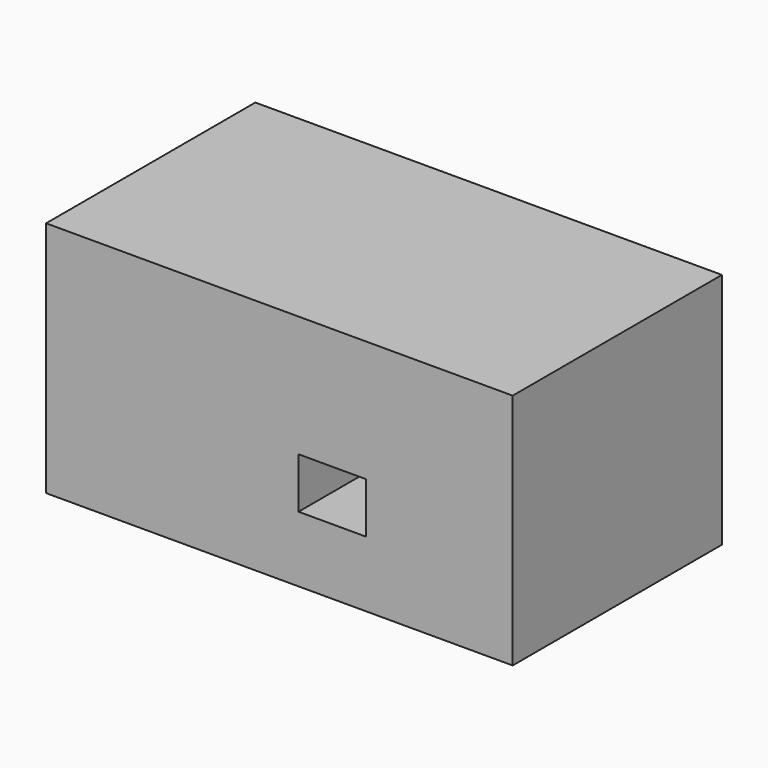
from build123d import *

# Parameters (mm, degrees)
F0_W          = 196.413949132
F0_H          = 110.1024672389
F0_W_2        = 42.3258244991
F0_H_2        = 21.1168043315
F1_DEPTH      = 100
F2_W          = 28.4016430378
F2_H          = 21.3012285531
F3_DEPTH      = 55.0522336195
F3_DEPTH_BACK = 55.0522336195


with BuildPart() as f1:
    # F0 (on Top) → F1 (new body)
    with BuildSketch(Plane.XY):
        Rectangle(F0_W, F0_H)
        with Locations((21.1629122496, 10.5584021658)):
            Rectangle(F0_W_2, F0_H_2, mode=Mode.SUBTRACT)
        with Locations((21.1629122496, 10.5584021658)):
            Rectangle(F0_W_2, F0_H_2)
    extrude(amount=F1_DEPTH)

    # F2 (on Front) → F3 (cut, two sides)
    with BuildSketch(Plane.XZ) as f3_sk:
        with Locations((22.2694687545, 38.3196715266)):
            Rectangle(F2_W, F2_H)
    extrude(amount=-F3_DEPTH, mode=Mode.SUBTRACT)
    extrude(f3_sk.sketch, amount=F3_DEPTH_BACK, mode=Mode.SUBTRACT)


solid = f1.part
